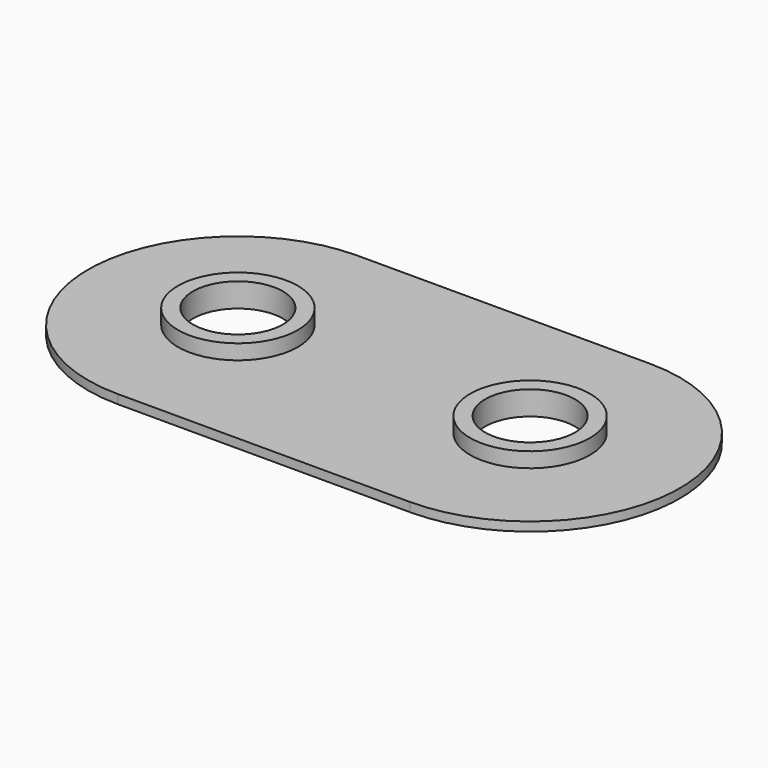
from build123d import *

# Parameters (mm, degrees)
F1_R     = 3
F2_DEPTH = 0.6
F3_R     = 4
F3_R_2   = 3
F4_DEPTH = 1


with BuildPart() as f2:
    # F1 (on Top) → F2 (new body)
    with BuildSketch(Plane.XY):
        with BuildLine():
            Line((19.5, 10), (0, 10))
            ThreePointArc((0, 10), (-10, 0), (0, -10))
            Line((0, -10), (19.5, -10))
            ThreePointArc((19.5, -10), (29.5, 0), (19.5, 10))
        make_face()
        Circle(F1_R, mode=Mode.SUBTRACT)
        with Locations((19.5, 0)):
            Circle(F1_R, mode=Mode.SUBTRACT)
    extrude(amount=F2_DEPTH)

    # F3 (on face) → F4 (join)
    with BuildSketch(Plane.XY.offset(0.6)):
        Circle(F3_R)
        Circle(F3_R_2, mode=Mode.SUBTRACT)
        with Locations((19.5, 0)):
            Circle(F3_R)
        with Locations((19.5, 0)):
            Circle(F3_R_2, mode=Mode.SUBTRACT)
    extrude(amount=F4_DEPTH)


solid = f2.part
